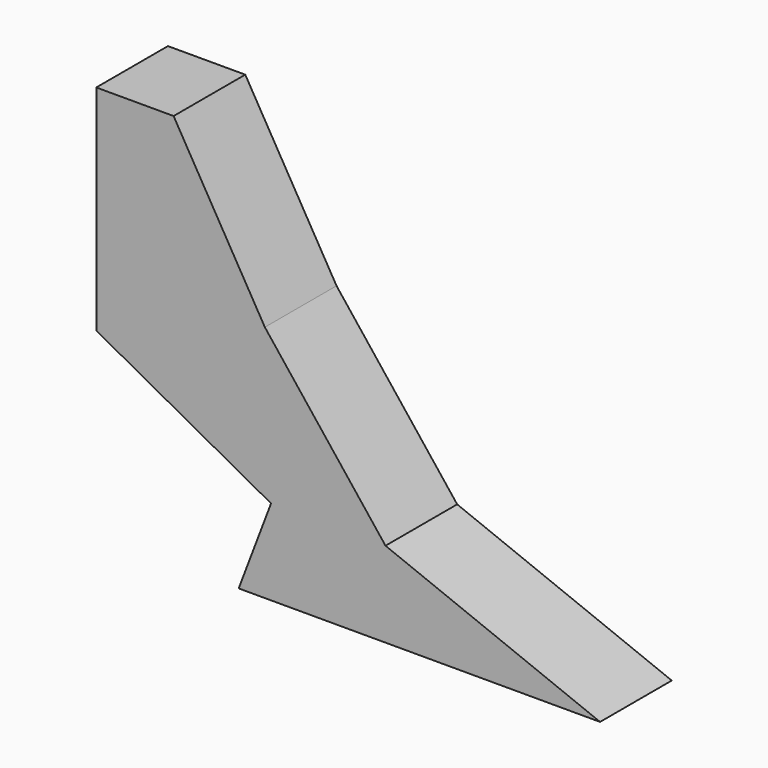
from build123d import *

# Parameters (mm, degrees)
F1_DEPTH = 7.7


with BuildPart() as f1:
    # F0 (on Front) → F1 (new body)
    with BuildSketch(Plane.XZ):
        Polygon((-30.109993, 13.426532), (-36.756793, 13.426532), (-31.572289, -1.861103), (-21.73503, -13.16066), (-11.897769, -13.16066), (-22.266773, 0), align=None)
        Polygon((-31.572289, -1.861103), (-36.756793, 13.426532), (-36.756793, -4.963943), (-21.73503, -13.16066), align=None)
        Polygon((-11.897769, -13.16066), (-21.73503, -13.16066), (-15.544919, -15.920161), (-5.281532, -20.495497), (6.542794, -20.495497), align=None)
        Polygon((-15.544919, -15.920161), (-21.73503, -13.16066), (-24.515769, -20.495497), (-21.73503, -20.495497), align=None)
        Polygon((-5.281532, -20.495497), (-15.544919, -15.920161), (-21.73503, -20.495497), align=None)
    extrude(amount=F1_DEPTH)


solid = f1.part
